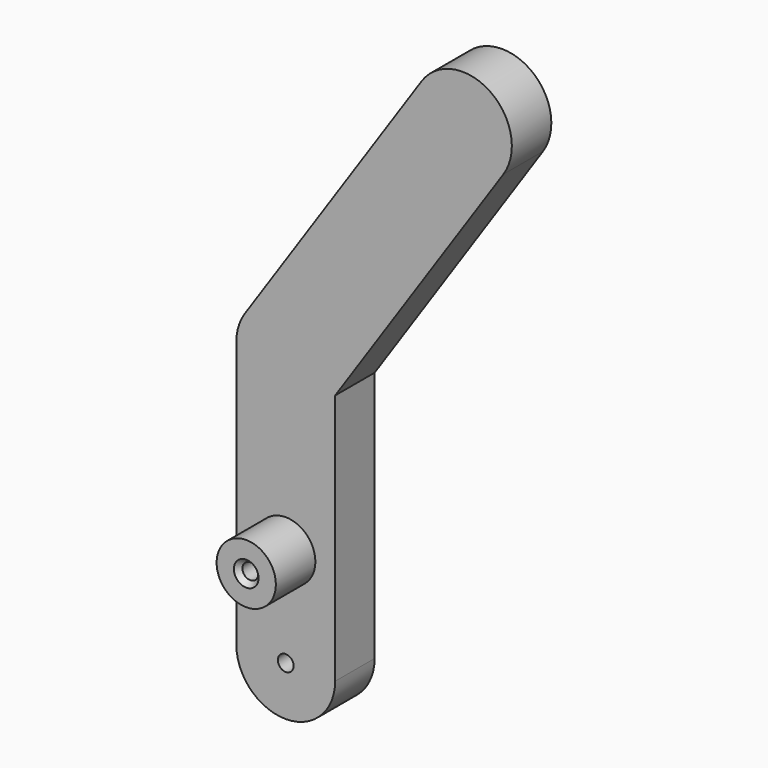
from build123d import *

# Parameters (mm, degrees)
F1_DEPTH       = 6.35
F2_R           = 3.81
F3_DEPTH       = 6.35
F5_D           = 2.032
F5_CSINK_D     = 3.175
F5_CSINK_ANGLE = 82
F6_D           = 2.032


with BuildPart() as f1:
    # F0 (on Front) → F1 (new body)
    with BuildSketch(Plane.XZ):
        with BuildLine():
            Line((0, -6.35), (0, 0))
            Line((0, 0), (3.550874937, 5.2643885857))
            ThreePointArc((3.550874937, 5.2643885857), (-1.2116371206, 6.2333326149), (-5.2643885857, 3.550874937))
            ThreePointArc((-5.2643885857, 3.550874937), (-6.0725352004, 1.856560325), (-6.35, 0))
            ThreePointArc((-6.35, 0), (-4.4901280605, -4.4901280605), (0, -6.35))
        make_face()
        with BuildLine():
            Line((3.550874937, 5.2643885857), (0, 0))
            Line((0, 0), (0, -6.35))
            ThreePointArc((0, -6.35), (2.9811444237, -5.6067172147), (5.2643885857, -3.550874937))
            Line((5.2643885857, -3.550874937), (6.35, -1.9413898273))
            Line((6.35, -1.9413898273), (6.35, 0))
            ThreePointArc((6.35, 0), (5.6067172147, 2.9811444237), (3.550874937, 5.2643885857))
        make_face()
        with BuildLine():
            ThreePointArc((-5.2643885857, 3.550874937), (-1.2116371206, 6.2333326149), (3.550874937, 5.2643885857))
            ThreePointArc((3.550874937, 5.2643885857), (5.6067172147, 2.9811444237), (6.35, 0))
            Line((6.35, 0), (6.35, -1.9413898273))
            Line((6.35, -1.9413898273), (27.9899881828, 30.1412120116))
            ThreePointArc((27.9899881828, 30.1412120116), (26.2764745341, 38.9564755344), (17.4612110113, 37.2429618857))
            Line((17.4612110113, 37.2429618857), (-5.2643885857, 3.550874937))
        make_face()
        with BuildLine():
            ThreePointArc((5.2643885857, -3.550874937), (2.9811444237, -5.6067172147), (0, -6.35))
            Line((0, -6.35), (0, -15.24))
            ThreePointArc((0, -15.24), (4.4901280605, -17.0998719395), (6.35, -21.59))
            Line((6.35, -21.59), (6.35, -1.9413898273))
            Line((6.35, -1.9413898273), (5.2643885857, -3.550874937))
        make_face()
        with BuildLine():
            Line((0, -15.24), (0, -6.35))
            ThreePointArc((0, -6.35), (-4.4901280605, -4.4901280605), (-6.35, 0))
            Line((-6.35, 0), (-6.35, -21.59))
            ThreePointArc((-6.35, -21.59), (-4.4901280605, -17.0998719395), (0, -15.24))
        make_face()
        with BuildLine():
            ThreePointArc((6.35, -21.59), (4.4901280605, -17.0998719395), (0, -15.24))
            Line((0, -15.24), (0, -21.59))
            Line((0, -21.59), (0, -27.94))
            ThreePointArc((0, -27.94), (4.4901280605, -26.0801280605), (6.35, -21.59))
        make_face()
        with BuildLine():
            Line((0, -21.59), (0, -15.24))
            ThreePointArc((0, -15.24), (-4.4901280605, -17.0998719395), (-6.35, -21.59))
            ThreePointArc((-6.35, -21.59), (-4.4901280605, -26.0801280605), (0, -27.94))
            Line((0, -27.94), (0, -21.59))
        make_face()
        with BuildLine():
            ThreePointArc((0, -27.94), (-4.4901280605, -26.0801280605), (-6.35, -21.59))
            Line((-6.35, -21.59), (-6.35, -34.29))
            ThreePointArc((-6.35, -34.29), (0, -40.64), (6.35, -34.29))
            Line((6.35, -34.29), (6.35, -21.59))
            ThreePointArc((6.35, -21.59), (4.4901280605, -26.0801280605), (0, -27.94))
        make_face()
    extrude(amount=F1_DEPTH)

    # F2 (on face) → F3 (join)
    with BuildSketch(Plane.XZ.offset(6.35)):
        with Locations((0, -21.59)):
            Circle(F2_R)
    extrude(amount=F3_DEPTH)

    # F5 (through all)
    with Locations(Plane.XZ.offset(12.7)):
        with Locations((0, -21.59)):
            CounterSinkHole(F5_D / 2, F5_CSINK_D / 2, counter_sink_angle=F5_CSINK_ANGLE)

    # F6 (through all)
    with Locations(Plane(origin=(0, 0, 0), x_dir=(1, 0, 0), z_dir=(0, 1, 0))):
        with Locations((0, 34.29)):
            Hole(F6_D / 2)


solid = f1.part
